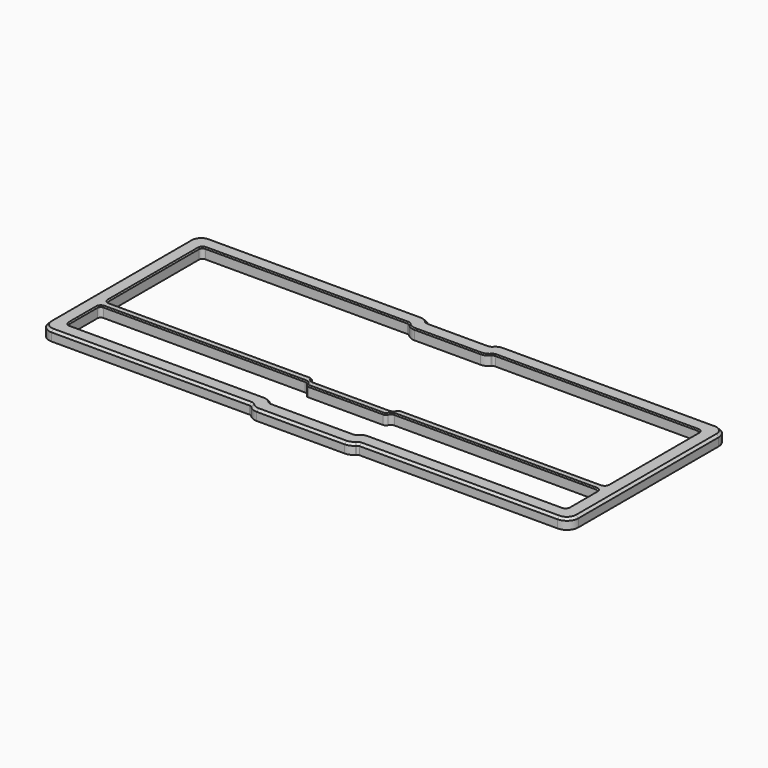
from build123d import *

# Parameters (mm, degrees)
PAD022_DEPTH    = 4.5
FILLET010_R     = 5
FILLET011_R     = 1.5
FILLET012_R     = 2
CHAMFER007_SIZE = 1
CHAMFER008_SIZE = 0.5
SKETCH077_R     = 1.55
POCKET027_DEPTH = 3


with BuildPart() as body008:
    # Sketch060 → Pad022 (new body)
    with BuildSketch(Plane.XY):
        Polygon((-115, 44.1875), (-115, -42.0625), (-23.317388, -42.0625), (-21.192388, -44.1875), (0, -44.1875), (0, -37.6875), (-18.5, -37.6875), (-20.625, -35.5625), (-108.5, -35.5625), (-108.5, -17.5625), (-17.895349, -17.5625), (-17.5, -19.6875), (0, -19.6875), (0, -16.4375), (-18.104651, -16.4375), (-18.5, -14.3125), (-108.5, -14.3125), (-108.5, 37.6875), (-18.5, 37.6875), (-16.375, 35.5625), (0, 35.5625), (0, 42.0625), (-13.682612, 42.0625), (-15.807612, 44.1875), align=None)
    extrude(amount=PAD022_DEPTH)

    # Fillet010
    fillet010_edges = [body008.edges().sort_by_distance(p)[0] for p in [
        (-115, -42.0625, 2.25),
        (-21.192388, -44.1875, 2.25),
        (-115, 44.1875, 2.25),
        (-15.807612, 44.1875, 2.25),
        (-20.625, -35.5625, 2.25),
        (-16.375, 35.5625, 2.25),
    ]]
    fillet(fillet010_edges, radius=FILLET010_R)

    # Fillet011
    fillet011_edges = [body008.edges().sort_by_distance(p)[0] for p in [
        (-108.5, -14.3125, 2.25),
        (-13.682612, 42.0625, 2.25),
        (-18.5, -14.3125, 2.25),
        (-17.5, -19.6875, 2.25),
        (-18.5, -37.6875, 2.25),
        (-23.317388, -42.0625, 2.25),
        (-18.5, 37.6875, 2.25),
        (-108.5, 37.6875, 2.25),
        (-108.5, -35.5625, 2.25),
        (-108.5, -17.5625, 2.25),
    ]]
    fillet(fillet011_edges, radius=FILLET011_R)

    # Fillet012
    fillet012_edges = [body008.edges().sort_by_distance(p)[0] for p in [
        (-17.895349, -17.5625, 2.25),
        (-18.104651, -16.4375, 2.25),
    ]]
    fillet(fillet012_edges, radius=FILLET012_R)

    # Chamfer007
    chamfer007_edges = [body008.edges().sort_by_distance(p)[0] for p in [
        (-66.969354, -42.0625, 4.5),
    ]]
    chamfer(chamfer007_edges, length=CHAMFER007_SIZE)

    # Chamfer008
    chamfer008_edges = [body008.edges().sort_by_distance(p)[0] for p in [
        (-63.235964, -17.5625, 4.5),
        (-108.5, 11.6875, 4.5),
    ]]
    chamfer(chamfer008_edges, length=CHAMFER008_SIZE)

    # Sketch077 (on Face7 of Chamfer008) → Pocket027 (cut)
    with BuildSketch(Plane(origin=(0, 0, 0), x_dir=(1, 0, 0), z_dir=(0, 0, -1))):
        with Locations((-110.5, 37.5625)):
            Circle(SKETCH077_R)
        with Locations((-110.5, -39.9375)):
            Circle(SKETCH077_R)
        with Locations((-38.333333, -40.9375)):
            Circle(SKETCH077_R)
        with Locations((-38.333333, 38.8125)):
            Circle(SKETCH077_R)
    extrude(amount=-POCKET027_DEPTH, mode=Mode.SUBTRACT)


with BuildPart() as top:
    # Part__Mirroring: instance of Body008
    add(body008.part.mirror(Plane(origin=(0, 0, 0), x_dir=(0, -1, 0), z_dir=(1, 0, 0))))

    # Fusion: union Body008
    add(body008.part)


solid = top.part
